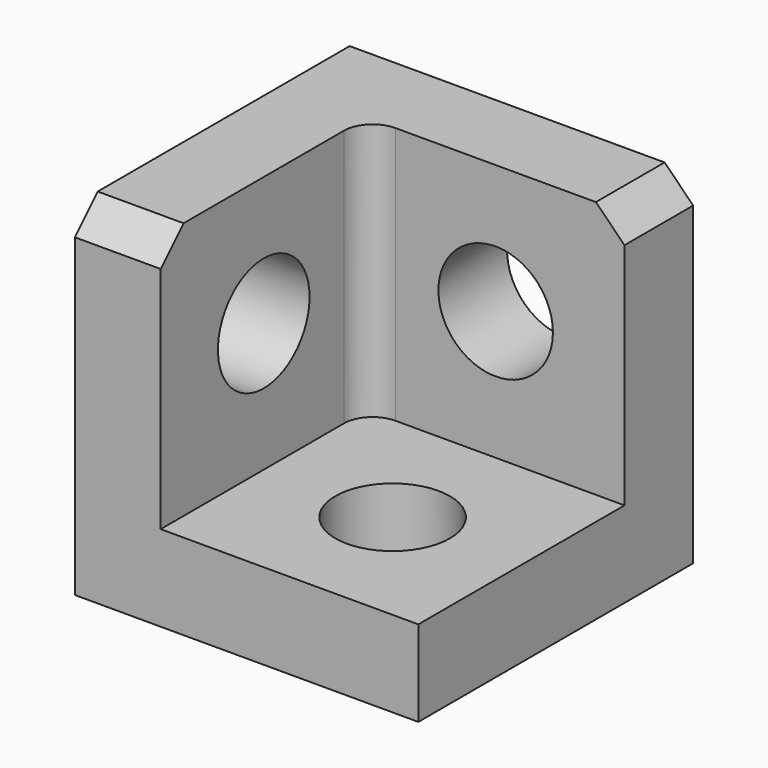
from build123d import *

# Parameters (mm, degrees)
F0_W     = 76.2
F0_H     = 76.2
F1_DEPTH = 76.2
F2_W     = 57.15
F2_H     = 57.15
F3_DEPTH = 57.15
F4_R     = 12.7
F5_DEPTH = 19.05
F6_R     = 12.7
F7_DEPTH = 19.05
F8_R     = 12.7
F9_DEPTH = 19.05
F10_SIZE = 6.35
F11_R    = 6.35


with BuildPart() as f1:
    # F0 (on Front) → F1 (new body)
    with BuildSketch(Plane.XZ):
        with Locations((38.1, 38.1)):
            Rectangle(F0_W, F0_H)
    extrude(amount=F1_DEPTH)

    # F2 (on face) → F3 (cut)
    with BuildSketch(Plane.XZ.offset(76.2)):
        with Locations((47.625, 47.625)):
            Rectangle(F2_W, F2_H)
    extrude(amount=-F3_DEPTH, mode=Mode.SUBTRACT)

    # F4 (on face) → F5 (cut)
    with BuildSketch(Plane.XY.offset(19.05)):
        with Locations((47.625, -47.625)):
            Circle(F4_R)
    extrude(amount=-F5_DEPTH, mode=Mode.SUBTRACT)

    # F6 (on face) → F7 (cut)
    with BuildSketch(Plane.YZ.offset(19.05)):
        with Locations((-47.625, 47.625)):
            Circle(F6_R)
    extrude(amount=-F7_DEPTH, mode=Mode.SUBTRACT)

    # F8 (on face) → F9 (cut)
    with BuildSketch(Plane.XZ.offset(19.05)):
        with Locations((47.625, 47.625)):
            Circle(F8_R)
    extrude(amount=-F9_DEPTH, mode=Mode.SUBTRACT)

    # F10
    f10_edges = [f1.edges().sort_by_distance(p)[0] for p in [
        (9.525, -76.2, 76.2),
        (76.2, -9.525, 76.2),
    ]]
    chamfer(f10_edges, length=F10_SIZE)

    # F11
    f11_edges = [f1.edges().sort_by_distance(p)[0] for p in [
        (19.05, -19.05, 47.625),
    ]]
    fillet(f11_edges, radius=F11_R)


solid = f1.part
